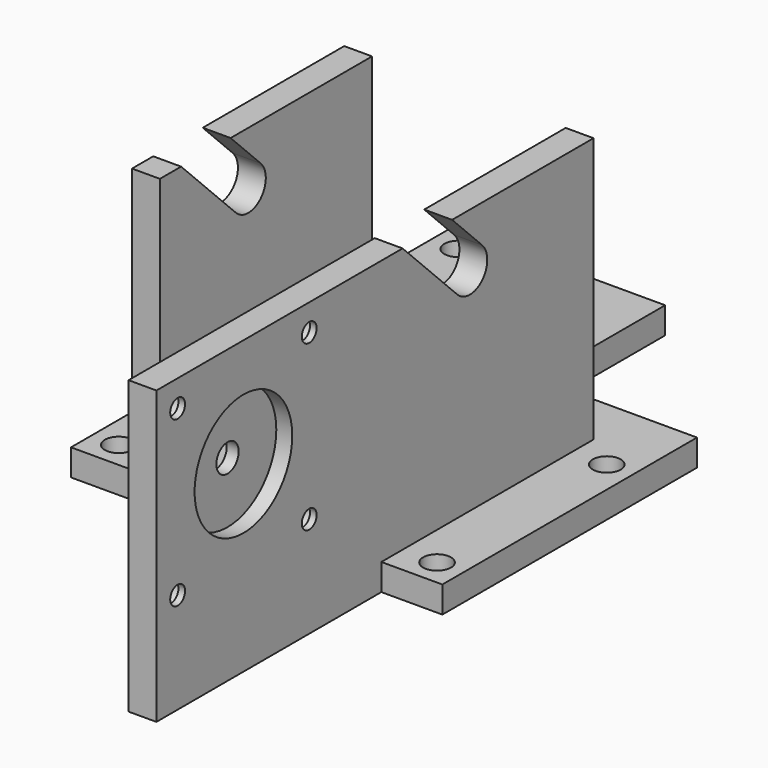
from build123d import *

# Parameters (mm, degrees)
SKETCH_W        = 70
SKETCH_H        = 50
PAD_DEPTH       = 5
SKETCH001_R     = 2.625
POCKET_DEPTH    = 5
SKETCH002_W     = 47
SKETCH002_H     = 50
PAD001_DEPTH    = 50
SKETCH003_W     = 36.5
SKETCH003_H     = 50
POCKET001_DEPTH = 50
POCKET002_DEPTH = 40
POCKET003_DEPTH = 50
SKETCH005_W     = 5.25
SKETCH005_H     = 55
PAD002_DEPTH    = 53
SKETCH006_R     = 1.75
POCKET004_DEPTH = 7
SKETCH007_R     = 11.5
POCKET005_DEPTH = 3
SKETCH008_R     = 2.75
POCKET006_DEPTH = 4
SKETCH009_R     = 2.625
POCKET007_DEPTH = 5
SKETCH010_W     = 40
SKETCH010_H     = 5
PAD003_DEPTH    = 40
SKETCH011_R     = 2.625
POCKET008_DEPTH = 5
SKETCH012_W     = 30
SKETCH012_H     = 5
PAD004_DEPTH    = 10


with BuildPart() as part:
    # Sketch → Pad (new body)
    with BuildSketch(Plane.XY):
        Rectangle(SKETCH_W, SKETCH_H)
    extrude(amount=PAD_DEPTH)

    # Sketch001 (on Face6 of Pad) → Pocket (cut)
    with BuildSketch(Plane.XY.offset(5)):
        with Locations((-30, 20)):
            Circle(SKETCH001_R)
        with Locations((30, 20)):
            Circle(SKETCH001_R)
        with Locations((30, -20)):
            Circle(SKETCH001_R)
        with Locations((-30, -20)):
            Circle(SKETCH001_R)
    extrude(amount=-POCKET_DEPTH, mode=Mode.SUBTRACT)

    # Sketch002 (on Face5 of Pocket) → Pad001 (join)
    with BuildSketch(Plane.XY.offset(5)):
        Rectangle(SKETCH002_W, SKETCH002_H)
    extrude(amount=PAD001_DEPTH)

    # Sketch003 (on Face16 of Pad001) → Pocket001 (cut)
    with BuildSketch(Plane.XY.offset(55)):
        Rectangle(SKETCH003_W, SKETCH003_H)
    extrude(amount=-POCKET001_DEPTH, mode=Mode.SUBTRACT)

    # Sketch004 (on Face18 of Pocket001) → Pocket002 (cut)
    with BuildSketch(Plane.YZ.offset(23.5)):
        with BuildLine():
            Line((-8.332745, 55), (-1.252745, 47.92))
            ThreePointArc((-7.08, 42.08), (-1.246373, 42.086373), (-1.252745, 47.92))
            Line((-20, 55), (-7.08, 42.08))
            Line((-20, 55), (-8.332745, 55))
        make_face()
    extrude(amount=-POCKET002_DEPTH, mode=Mode.SUBTRACT)

    # Sketch004 (on Face18 of Pocket001) → Pocket003 (cut)
    with BuildSketch(Plane.YZ.offset(23.5)):
        with BuildLine():
            Line((-8.332745, 55), (-1.252745, 47.92))
            ThreePointArc((-7.08, 42.08), (-1.246373, 42.086373), (-1.252745, 47.92))
            Line((-20, 55), (-7.08, 42.08))
            Line((-20, 55), (-8.332745, 55))
        make_face()
    extrude(amount=-POCKET003_DEPTH, mode=Mode.SUBTRACT)

    # Sketch005 (on Face8 of Pocket003) → Pad002 (join)
    with BuildSketch(Plane.XZ.offset(25)):
        with Locations((20.875, 27.5)):
            Rectangle(SKETCH005_W, SKETCH005_H)
    extrude(amount=PAD002_DEPTH)

    # Sketch006 (on Face28 of Pad002) → Pocket004 (cut)
    with BuildSketch(Plane.YZ.offset(23.5)):
        with Locations((-73, 50)):
            Circle(SKETCH006_R)
        with Locations((-42, 50)):
            Circle(SKETCH006_R)
        with Locations((-42, 19)):
            Circle(SKETCH006_R)
        with Locations((-73, 19)):
            Circle(SKETCH006_R)
    extrude(amount=-POCKET004_DEPTH, mode=Mode.SUBTRACT)

    # Sketch007 (on Face32 of Pocket004) → Pocket005 (cut)
    with BuildSketch(Plane.YZ.offset(23.5)):
        with Locations((-57.5, 34.5)):
            Circle(SKETCH007_R)
    extrude(amount=-POCKET005_DEPTH, mode=Mode.SUBTRACT)

    # Sketch008 (on Face8 of Pocket005) → Pocket006 (cut)
    with BuildSketch(Plane(origin=(18.25, 0, 0), x_dir=(0, -1, 0), z_dir=(-1, 0, 0))):
        with Locations((42, 50)):
            Circle(SKETCH008_R)
        with Locations((73, 50)):
            Circle(SKETCH008_R)
        with Locations((73, 19)):
            Circle(SKETCH008_R)
        with Locations((42, 19)):
            Circle(SKETCH008_R)
    extrude(amount=-POCKET006_DEPTH, mode=Mode.SUBTRACT)

    # Sketch009 (on Face49 of Pocket006) → Pocket007 (cut)
    with BuildSketch(Plane.YZ.offset(20.5)):
        with Locations((-57.5, 34.5)):
            Circle(SKETCH009_R)
    extrude(amount=-POCKET007_DEPTH, mode=Mode.SUBTRACT)

    # Sketch010 (on Face3 of Pocket007) → Pad003 (join)
    with BuildSketch(Plane(origin=(0, 25, 0), x_dir=(-1, 0, 0), z_dir=(0, 1, 0))):
        with Locations((15, 2.5)):
            Rectangle(SKETCH010_W, SKETCH010_H)
    extrude(amount=PAD003_DEPTH)

    # Sketch011 (on Face10 of Pad003) → Pocket008 (cut)
    with BuildSketch(Plane.XY.offset(5)):
        with Locations((-30, 60)):
            Circle(SKETCH011_R)
        with Locations((-10, 60)):
            Circle(SKETCH011_R)
    extrude(amount=-POCKET008_DEPTH, mode=Mode.SUBTRACT)

    # Sketch012 (on Face14 of Pocket008) → Pad004 (join)
    with BuildSketch(Plane(origin=(0, 25, 0), x_dir=(-1, 0, 0), z_dir=(0, 1, 0))):
        with Locations((-20, 2.5)):
            Rectangle(SKETCH012_W, SKETCH012_H)
    extrude(amount=PAD004_DEPTH)


solid = part.part
